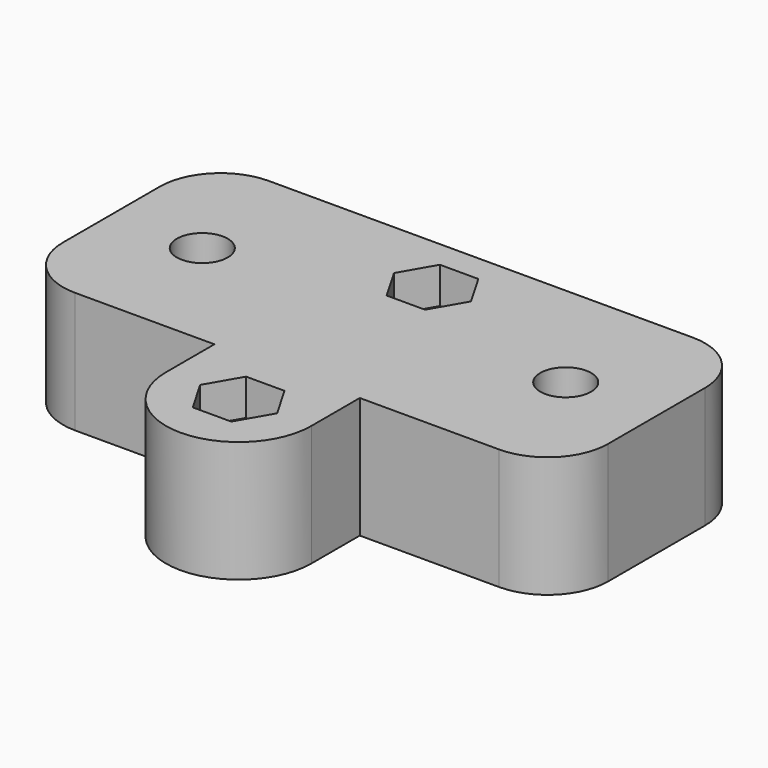
from build123d import *

# Parameters (mm, degrees)
SKETCH_R        = 2.1
SKETCH_R_2      = 1.5
PAD_DEPTH       = 10
POCKET_DEPTH    = 3
SKETCH002_R     = 2.1
SKETCH002_R_2   = 1.5
PAD001_DEPTH    = 2
SKETCH003_R     = 3.6
SKETCH003_R_2   = 2.1
POCKET001_DEPTH = 2.5
FILLET_R        = 1
FILLET001_R     = 5
SKETCH004_R     = 1.5
PAD002_DEPTH    = 0.1


with BuildPart() as part:
    # Sketch → Pad (new body)
    with BuildSketch(Plane.XY):
        with BuildLine():
            Line((-22.5, 10), (22.5, 10))
            Line((22.5, 10), (22.5, -10))
            Line((22.5, -10), (6, -10))
            Line((6, -15), (6, -10))
            ThreePointArc((-6, -15), (0, -21), (6, -15))
            Line((-6, -15), (-6, -10))
            Line((-22.5, -10), (-6, -10))
            Line((-22.5, -10), (-22.5, 10))
        make_face()
        with Locations((-15, 0)):
            Circle(SKETCH_R, mode=Mode.SUBTRACT)
        with Locations((15, 0)):
            Circle(SKETCH_R, mode=Mode.SUBTRACT)
        with Locations((0, 5)):
            Circle(SKETCH_R_2, mode=Mode.SUBTRACT)
        with Locations((0, -15)):
            Circle(SKETCH_R_2, mode=Mode.SUBTRACT)
    extrude(amount=PAD_DEPTH)

    # Sketch001 → Pocket (cut)
    with BuildSketch(Plane.XY.offset(10)):
        Polygon((1.587713, 2.25), (3.175426, 5), (1.587713, 7.75), (-1.587713, 7.75), (-3.175426, 5), (-1.587713, 2.25), align=None)
        Polygon((1.587713, -17.75), (3.175426, -15), (1.587713, -12.25), (-1.587713, -12.25), (-3.175426, -15), (-1.587713, -17.75), align=None)
    extrude(amount=-POCKET_DEPTH, mode=Mode.SUBTRACT)

    # Sketch002 → Pad001 (new body)
    with BuildSketch(Plane(origin=(0, 0, 0), x_dir=(1, 0, 0), z_dir=(0, 0, -1))):
        with Locations((0, -5)):
            Circle(SKETCH002_R)
        with Locations((0, -5)):
            Circle(SKETCH002_R_2, mode=Mode.SUBTRACT)
        with Locations((0, 15)):
            Circle(SKETCH002_R)
        with Locations((0, 15)):
            Circle(SKETCH002_R_2, mode=Mode.SUBTRACT)
    extrude(amount=PAD001_DEPTH)

    # Sketch003 → Pocket001 (cut)
    with BuildSketch(Plane(origin=(0, 0, 0), x_dir=(1, 0, 0), z_dir=(0, 0, -1))):
        with Locations((15, 0)):
            Circle(SKETCH003_R)
        with Locations((15, 0)):
            Circle(SKETCH003_R_2, mode=Mode.SUBTRACT)
        with Locations((-15, 0)):
            Circle(SKETCH003_R)
        with Locations((-15, 0)):
            Circle(SKETCH003_R_2, mode=Mode.SUBTRACT)
    extrude(amount=-POCKET001_DEPTH, mode=Mode.SUBTRACT)

    # Fillet
    fillet_edges = [part.edges().sort_by_distance(p)[0] for p in [
        (-2.1, 5, 0),
        (-2.1, -15, 0),
    ]]
    fillet(fillet_edges, radius=FILLET_R)

    # Fillet001
    fillet001_edges = [part.edges().sort_by_distance(p)[0] for p in [
        (22.5, 10, 5),
        (22.5, -10, 5),
        (-22.5, 10, 5),
        (-22.5, -10, 5),
    ]]
    fillet(fillet001_edges, radius=FILLET001_R)

    # Sketch004 → Pad002 (new body)
    with BuildSketch(Plane.XY.offset(7)):
        with Locations((0, 5)):
            Circle(SKETCH004_R)
        with Locations((0, -15)):
            Circle(SKETCH004_R)
    extrude(amount=-PAD002_DEPTH)


solid = part.part
